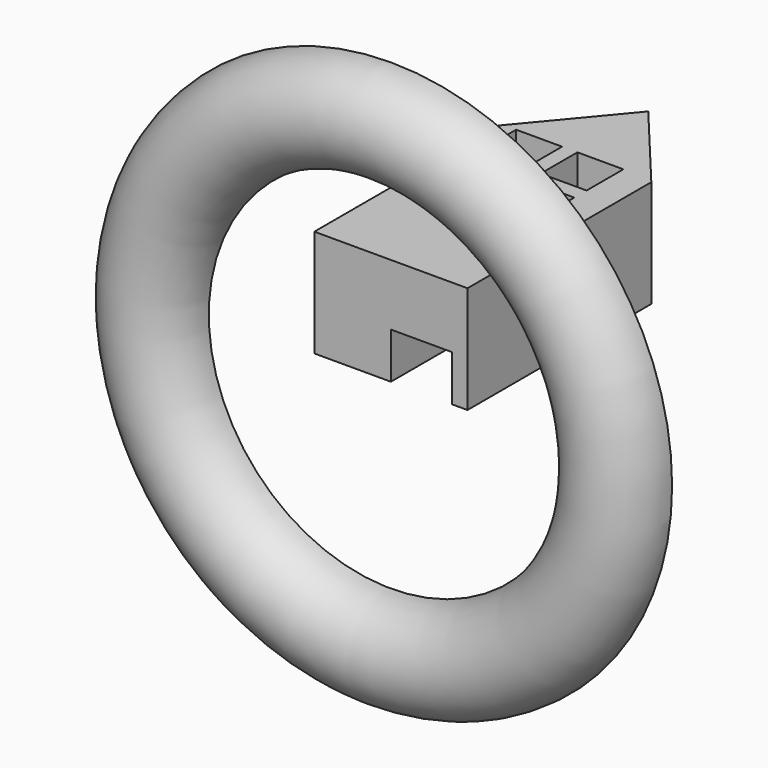
from build123d import *

# Parameters (mm, degrees)
F0_W     = 254
F0_H     = 381
F1_DEPTH = 177.8
F2_W     = 101.6
F2_H     = 203.2
F3_DEPTH = 76.2
F6_W     = 76.2
F6_H     = 76.2
F7_DEPTH = 177.8


with BuildPart() as f1:
    # F0 (on Top) → F1 (new body)
    with BuildSketch(Plane.XY):
        Polygon((0, 342.9), (-127, 190.5), (127, 190.5), align=None)
        Rectangle(F0_W, F0_H)
    extrude(amount=F1_DEPTH)

    # F2 (on face) → F3 (cut)
    with BuildSketch(Plane(origin=(0, 0, 0), x_dir=(1, 0, 0), z_dir=(0, 0, -1))):
        with Locations((50.8, 88.9)):
            Rectangle(F2_W, F2_H)
    extrude(amount=-F3_DEPTH, mode=Mode.SUBTRACT)

    # F6 (on face) → F7 (cut, through all)
    with BuildSketch(Plane(origin=(0, 0, 0), x_dir=(1, 0, 0), z_dir=(0, 0, -1))):
        with Locations((38.1, -157.91223)):
            Rectangle(F6_W, F6_H)
        with Locations((38.1, -56.31223)):
            Rectangle(F6_W, F6_H)
        with Locations((-63.5, -56.31223)):
            Rectangle(F6_W, F6_H)
        with Locations((-63.5, -157.91223)):
            Rectangle(F6_W, F6_H)
    extrude(amount=-F7_DEPTH, mode=Mode.SUBTRACT)


with BuildPart() as f5:
    # F4 (on Top) → F5 (revolve)
    with BuildSketch(Plane.XY):
        with BuildLine():
            Line((466.296852, -190.5), (302.005708, -190.5))
            ThreePointArc((302.005708, -190.5), (384.15128, -272.645572), (466.296852, -190.5))
        make_face()
    revolve(axis=Axis((0, -13.008375, 0), (0, -1, 0)))


solid = Compound([f1.part, f5.part])
